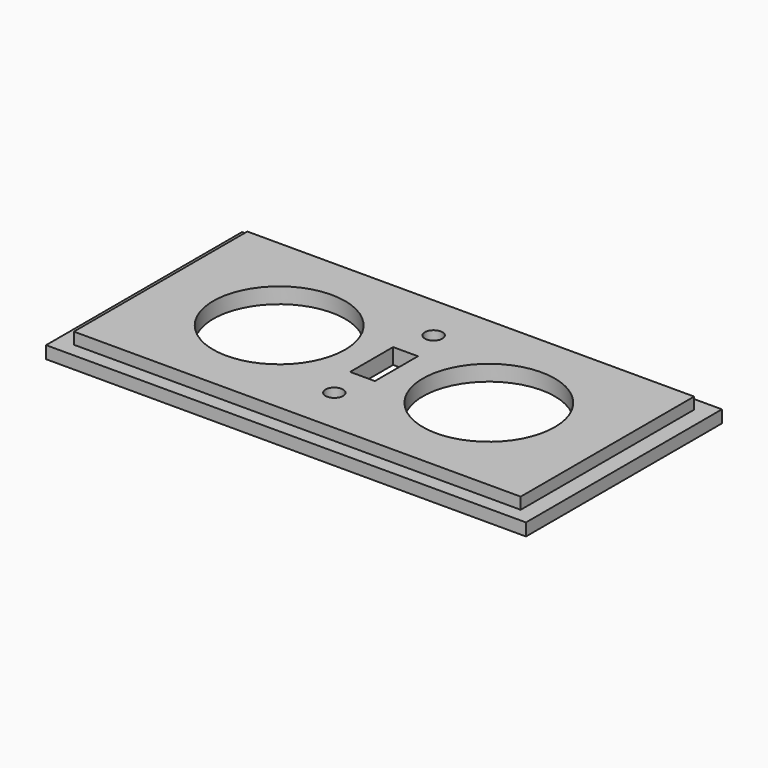
from build123d import *

# Parameters (mm, degrees)
SKETCH_W        = 58
SKETCH_H        = 29.6
PAD_DEPTH       = 1.5
SKETCH001_W     = 54
SKETCH001_H     = 26.2
PAD001_DEPTH    = 1.4
SKETCH002_W     = 52
SKETCH002_H     = 24.2
POCKET_DEPTH    = 1
SKETCH003_R     = 7.97
SKETCH003_R_2   = 1.06
SKETCH003_W     = 3
SKETCH003_H     = 6.5
POCKET001_DEPTH = 5


with BuildPart() as part:
    # Sketch → Pad (new body)
    with BuildSketch(Plane.XY):
        with Locations((29, 14.8)):
            Rectangle(SKETCH_W, SKETCH_H)
    extrude(amount=PAD_DEPTH)

    # Sketch001 (on Face6 of Pad) → Pad001 (join)
    with BuildSketch(Plane.XY.offset(1.5)):
        with Locations((29, 14.8)):
            Rectangle(SKETCH001_W, SKETCH001_H)
    extrude(amount=PAD001_DEPTH)

    # Sketch002 (on Face4 of Pad001) → Pocket (cut)
    with BuildSketch(Plane(origin=(0, 0, 0), x_dir=(1, 0, 0), z_dir=(0, 0, -1))):
        with Locations((29, -14.8)):
            Rectangle(SKETCH002_W, SKETCH002_H)
    extrude(amount=-POCKET_DEPTH, mode=Mode.SUBTRACT)

    # Sketch003 (on Face16 of Pocket) → Pocket001 (cut)
    with BuildSketch(Plane.XY.offset(2.9)):
        with Locations((16.33, 14.8)):
            Circle(SKETCH003_R)
        with Locations((41.67, 14.8)):
            Circle(SKETCH003_R)
        with Locations((29, 22.3)):
            Circle(SKETCH003_R_2)
        with Locations((29, 7.3)):
            Circle(SKETCH003_R_2)
        with Locations((29, 14.8)):
            Rectangle(SKETCH003_W, SKETCH003_H)
    extrude(amount=-POCKET001_DEPTH, mode=Mode.SUBTRACT)


solid = part.part
